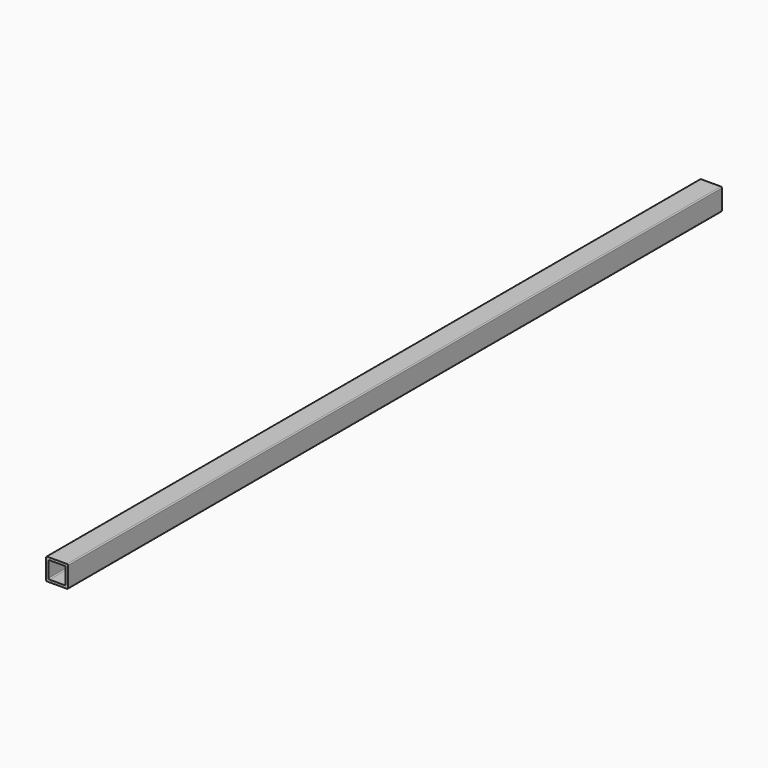
from build123d import *

# Parameters (mm, degrees)
F1_DEPTH = 2133.6


with BuildPart() as f1:
    # F0 (on Front) → F1 (new body)
    with BuildSketch(Plane.XZ):
        with BuildLine():
            Line((24.488532, 35.02659), (-27.581468, 35.02659))
            ThreePointArc((-27.581468, 35.02659), (-29.377519, 34.282641), (-30.121468, 32.48659))
            Line((-30.121468, 32.48659), (-30.121468, -19.58341))
            ThreePointArc((-30.121468, -19.58341), (-29.377519, -21.379462), (-27.581468, -22.12341))
            Line((-27.581468, -22.12341), (24.488532, -22.12341))
            ThreePointArc((24.488532, -22.12341), (26.284584, -21.379462), (27.028532, -19.58341))
            Line((27.028532, -19.58341), (27.028532, 32.48659))
            ThreePointArc((27.028532, 32.48659), (26.284584, 34.282641), (24.488532, 35.02659))
        make_face()
        with BuildLine():
            ThreePointArc((-23.771468, 26.13659), (-23.027519, 27.932641), (-21.231468, 28.67659))
            Line((-21.231468, 28.67659), (20.678532, 28.67659))
            Line((20.678532, 28.67659), (20.678532, -13.23341))
            ThreePointArc((20.678532, -13.23341), (19.934584, -15.029462), (18.138532, -15.77341))
            Line((18.138532, -15.77341), (-21.231468, -15.77341))
            ThreePointArc((-21.231468, -15.77341), (-23.027519, -15.029462), (-23.771468, -13.23341))
            Line((-23.771468, -13.23341), (-23.771468, 26.13659))
        make_face(mode=Mode.SUBTRACT)
    extrude(amount=F1_DEPTH)


solid = f1.part
